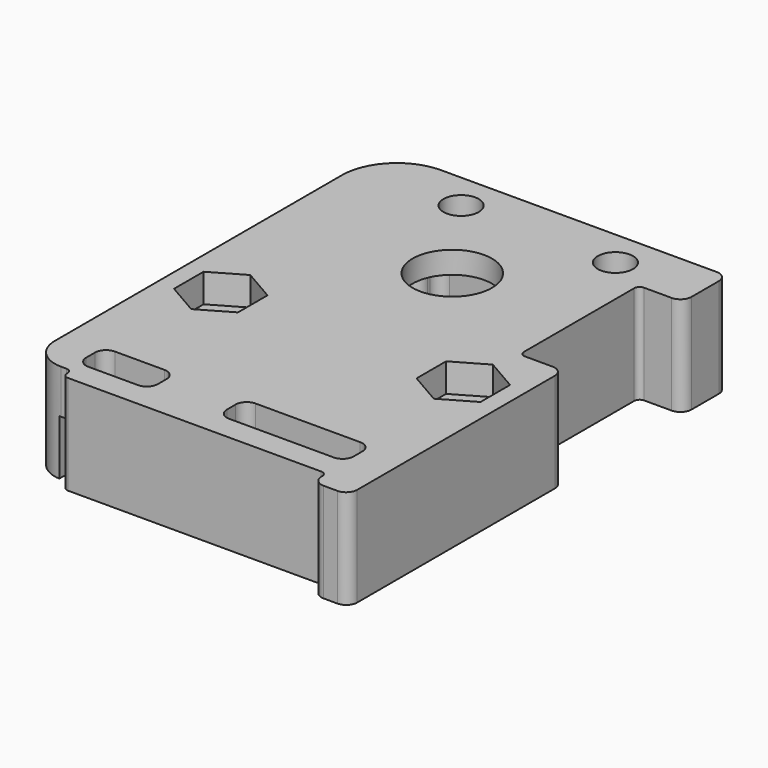
from build123d import *

# Parameters (mm, degrees)
SKETCH_R        = 3.6
SKETCH_R_2      = 1.6
SKETCH_W        = 6.5
SKETCH_H        = 3
SKETCH_W_2      = 11.5
PAD_DEPTH       = 9
POCKET_DEPTH    = 2.6
POCKET001_DEPTH = 7
SKETCH003_W     = 25.7
SKETCH003_H     = 13
POCKET002_DEPTH = 3
SKETCH004_R     = 1.8
POCKET003_DEPTH = 2
FILLET_R        = 5
FILLET001_R     = 0.99
FILLET002_R     = 1
FILLET003_R     = 0.5


with BuildPart() as part:
    # Sketch → Pad (new body)
    with BuildSketch(Plane.XY):
        with BuildLine():
            Line((15.5, -31.15), (15.5, -6.75))
            Line((15.5, -6.75), (11.5, -6.75))
            Line((11.5, -6.75), (11.5, 6.75))
            Line((11.5, 6.75), (15.5, 6.75))
            Line((15.5, 6.75), (15.5, 11.85))
            Line((15.5, 11.85), (-15.5, 11.85))
            Line((-15.5, 11.85), (-15.5, -25.7))
            ThreePointArc((-15.5, -25.7), (-14.679899, -27.679899), (-12.7, -28.5))
            Line((-11.7, -28.5), (-12.7, -28.5))
            Line((-11.7, -29.55), (-11.7, -28.5))
            Line((-11.7, -29.55), (12.25, -29.55))
            Line((12.25, -29.55), (12.25, -31.15))
            Line((12.25, -31.15), (15.5, -31.15))
        make_face()
        Circle(SKETCH_R, mode=Mode.SUBTRACT)
        with Locations((-11, -12.5)):
            Circle(SKETCH_R_2, mode=Mode.SUBTRACT)
        with Locations((11, -12.5)):
            Circle(SKETCH_R_2, mode=Mode.SUBTRACT)
        with Locations((-6, 8.5)):
            Circle(SKETCH_R_2, mode=Mode.SUBTRACT)
        with Locations((8, 8.5)):
            Circle(SKETCH_R_2, mode=Mode.SUBTRACT)
        with Locations((-8.91, -25.81)):
            Rectangle(SKETCH_W, SKETCH_H, mode=Mode.SUBTRACT)
        with Locations((6.35, -25.81)):
            Rectangle(SKETCH_W_2, SKETCH_H, mode=Mode.SUBTRACT)
    extrude(amount=PAD_DEPTH)

    # Sketch001 (on Face28 of Pad) → Pocket (cut)
    with BuildSketch(Plane.XY.offset(9)):
        Polygon((-8.1, -14.174316), (-8.1, -10.825684), (-11, -9.151368), (-13.9, -10.825684), (-13.9, -14.174316), (-11, -15.848632), align=None)
        Polygon((13.9, -14.174316), (13.9, -10.825684), (11, -9.151368), (8.1, -10.825684), (8.1, -14.174316), (11, -15.848632), align=None)
    extrude(amount=-POCKET_DEPTH, mode=Mode.SUBTRACT)

    # Sketch002 → Pocket001 (cut)
    with BuildSketch(Plane(origin=(0, 0, 0), x_dir=(1, 0, 0), z_dir=(0, 0, -1))):
        Polygon((8.25, -4), (6.25, -4), (6.25, -6.25), (-6.25, -6.25), (-6.25, -4), (-8.25, -4), (-8.25, 4), (-6.25, 4), (-6.25, 6.25), (6.25, 6.25), (6.25, 4), (8.25, 4), align=None)
    extrude(amount=-POCKET001_DEPTH, mode=Mode.SUBTRACT)

    # Sketch003 → Pocket002 (cut)
    with BuildSketch(Plane(origin=(0, 0, 0), x_dir=(1, 0, 0), z_dir=(0, 0, -1))):
        with Locations((0, 22)):
            Rectangle(SKETCH003_W, SKETCH003_H)
    extrude(amount=-POCKET002_DEPTH, mode=Mode.SUBTRACT)

    # Sketch004 (on Face57 of Pocket002) → Pocket003 (cut)
    with BuildSketch(Plane(origin=(0, 0, 3), x_dir=(1, 0, 0), z_dir=(0, 0, -1))):
        with Locations((0, 22)):
            Circle(SKETCH004_R)
        with BuildLine():
            Line((1.5, 15.5), (12.85, 15.5))
            Line((12.85, 15.5), (12.85, 20.5))
            Line((12.85, 20.5), (3.5, 20.5))
            ThreePointArc((3.5, 20.5), (2.085786, 19.914214), (1.5, 18.5))
            Line((1.5, 18.5), (1.5, 15.5))
        make_face()
        with BuildLine():
            Line((-1.5, 15.5), (-12.85, 15.5))
            Line((-12.85, 15.5), (-12.85, 20.5))
            Line((-12.85, 20.5), (-3.5, 20.5))
            ThreePointArc((-1.5, 18.5), (-2.085786, 19.914214), (-3.5, 20.5))
            Line((-1.5, 18.5), (-1.5, 15.5))
        make_face()
        with BuildLine():
            Line((12.85, 23.5), (3.5, 23.5))
            ThreePointArc((1.5, 25.5), (2.085786, 24.085786), (3.5, 23.5))
            Line((1.5, 25.5), (1.5, 28.5))
            Line((1.5, 28.5), (12.85, 28.5))
            Line((12.85, 28.5), (12.85, 23.5))
        make_face()
        with BuildLine():
            Line((-12.85, 23.5), (-3.5, 23.5))
            ThreePointArc((-3.5, 23.5), (-2.085786, 24.085786), (-1.5, 25.5))
            Line((-1.5, 25.5), (-1.5, 28.5))
            Line((-1.5, 28.5), (-12.85, 28.5))
            Line((-12.85, 28.5), (-12.85, 23.5))
        make_face()
    extrude(amount=-POCKET003_DEPTH, mode=Mode.SUBTRACT)

    # Fillet
    fillet_edges = [part.edges().sort_by_distance(p)[0] for p in [
        (-15.5, 11.85, 4.5),
    ]]
    fillet(fillet_edges, radius=FILLET_R)

    # Fillet001
    fillet001_edges = [part.edges().sort_by_distance(p)[0] for p in [
        (6.25, 6.25, 3.5),
        (-6.25, 6.25, 3.5),
        (-6.25, 4, 3.5),
        (-8.25, 4, 3.5),
        (6.25, 4, 3.5),
        (8.25, 4, 3.5),
        (8.25, -4, 3.5),
        (6.25, -4, 3.5),
        (6.25, -6.25, 3.5),
        (-6.25, -6.25, 3.5),
        (-6.25, -4, 3.5),
        (-8.25, -4, 3.5),
    ]]
    fillet(fillet001_edges, radius=FILLET001_R)

    # Fillet002
    fillet002_edges = [part.edges().sort_by_distance(p)[0] for p in [
        (15.5, 11.85, 4.5),
        (15.5, 6.75, 4.5),
        (15.5, -6.75, 4.5),
        (15.5, -31.15, 4.5),
        (12.25, -31.15, 4.5),
        (12.1, -24.31, 7),
        (0.6, -24.31, 6),
        (12.1, -27.31, 7),
        (0.6, -27.31, 6),
        (-12.16, -24.31, 7),
        (-5.66, -24.31, 7),
        (-5.66, -27.31, 7),
        (-12.16, -27.31, 7),
    ]]
    fillet(fillet002_edges, radius=FILLET002_R)

    # Fillet003
    fillet003_edges = [part.edges().sort_by_distance(p)[0] for p in [
        (11.5, 6.75, 4.5),
        (11.5, -6.75, 4.5),
        (12.85, -15.5, 4),
        (12.85, -15.5, 1.5),
        (12.85, -20.5, 4),
        (-12.85, -15.5, 4),
        (-12.85, -15.5, 1.5),
        (-12.85, -23.5, 4),
        (-12.85, -20.5, 4),
        (-11.7, -29.55, 4.5),
        (12.85, -28.5, 1.5),
        (12.85, -28.5, 4),
        (12.25, -29.55, 4.5),
        (-11.7, -28.5, 7),
    ]]
    fillet(fillet003_edges, radius=FILLET003_R)


solid = part.part
